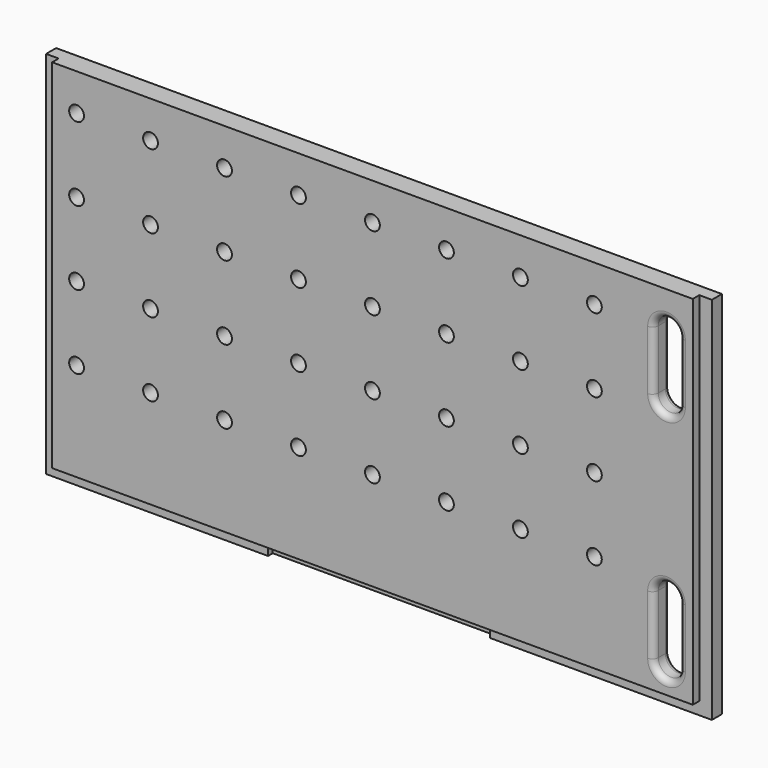
from build123d import *

# Parameters (mm, degrees)
F0_W          = 900
F0_H          = 500
F1_DEPTH      = 28
F2_R          = 10
F3_DEPTH      = 25
F3_DEPTH_BACK = 35
F4_DEPTH      = 25
F4_DEPTH_BACK = 35
F6_W          = 17
F6_H          = 500
F7_DEPTH      = 11
F9_DEPTH      = 25
F9_DEPTH_BACK = 35
F10_R         = 8
F11_W         = 866
F11_H         = 17
F12_DEPTH     = 11
F13_W         = 300
F13_H         = 27
F14_DEPTH     = 8


with BuildPart() as f1:
    # F0 (on Front) → F1 (new body)
    with BuildSketch(Plane.XZ):
        Rectangle(F0_W, F0_H)
    extrude(amount=F1_DEPTH)


with BuildPart() as f3:
    # F2 (on face) → F3 (new body, two sides)
    with BuildSketch(Plane.XZ.offset(28)) as f3_sk:
        with Locations((300, -100)):
            Circle(F2_R)
        with Locations((200, -100)):
            Circle(F2_R)
        with Locations((100, -100)):
            Circle(F2_R)
        with Locations((0, -100)):
            Circle(F2_R)
        with Locations((-100, -100)):
            Circle(F2_R)
        with Locations((-200, -100)):
            Circle(F2_R)
        with Locations((-300, -100)):
            Circle(F2_R)
        with Locations((-400, -100)):
            Circle(F2_R)
        with Locations((-400, 0)):
            Circle(F2_R)
        with Locations((-300, 0)):
            Circle(F2_R)
        with Locations((-200, 0)):
            Circle(F2_R)
        with Locations((-100, 0)):
            Circle(F2_R)
        Circle(F2_R)
        with Locations((100, 0)):
            Circle(F2_R)
        with Locations((200, 0)):
            Circle(F2_R)
        with Locations((300, 0)):
            Circle(F2_R)
        with Locations((-400, 100)):
            Circle(F2_R)
        with Locations((-300, 100)):
            Circle(F2_R)
        with Locations((-200, 100)):
            Circle(F2_R)
        with Locations((-100, 100)):
            Circle(F2_R)
        with Locations((0, 100)):
            Circle(F2_R)
        with Locations((100, 100)):
            Circle(F2_R)
        with Locations((200, 100)):
            Circle(F2_R)
        with Locations((300, 100)):
            Circle(F2_R)
        with Locations((-400, 200)):
            Circle(F2_R)
        with Locations((-300, 200)):
            Circle(F2_R)
        with Locations((-200, 200)):
            Circle(F2_R)
        with Locations((-100, 200)):
            Circle(F2_R)
        with Locations((0, 200)):
            Circle(F2_R)
        with Locations((100, 200)):
            Circle(F2_R)
        with Locations((200, 200)):
            Circle(F2_R)
        with Locations((300, 200)):
            Circle(F2_R)
    extrude(amount=F3_DEPTH)
    extrude(f3_sk.sketch, amount=-F3_DEPTH_BACK)


with BuildPart() as f4:
    # F2 (on face) → F4 (new body, two sides)
    with BuildSketch(Plane.XZ.offset(28)) as f4_sk:
        with Locations((300, -100)):
            Circle(F2_R)
        with Locations((200, -100)):
            Circle(F2_R)
        with Locations((100, -100)):
            Circle(F2_R)
        with Locations((0, -100)):
            Circle(F2_R)
        with Locations((-100, -100)):
            Circle(F2_R)
        with Locations((-200, -100)):
            Circle(F2_R)
        with Locations((-300, -100)):
            Circle(F2_R)
        with Locations((-400, -100)):
            Circle(F2_R)
        with Locations((-400, 0)):
            Circle(F2_R)
        with Locations((-300, 0)):
            Circle(F2_R)
        with Locations((-200, 0)):
            Circle(F2_R)
        with Locations((-100, 0)):
            Circle(F2_R)
        Circle(F2_R)
        with Locations((100, 0)):
            Circle(F2_R)
        with Locations((200, 0)):
            Circle(F2_R)
        with Locations((300, 0)):
            Circle(F2_R)
        with Locations((-400, 100)):
            Circle(F2_R)
        with Locations((-300, 100)):
            Circle(F2_R)
        with Locations((-200, 100)):
            Circle(F2_R)
        with Locations((-100, 100)):
            Circle(F2_R)
        with Locations((0, 100)):
            Circle(F2_R)
        with Locations((100, 100)):
            Circle(F2_R)
        with Locations((200, 100)):
            Circle(F2_R)
        with Locations((300, 100)):
            Circle(F2_R)
        with Locations((-400, 200)):
            Circle(F2_R)
        with Locations((-300, 200)):
            Circle(F2_R)
        with Locations((-200, 200)):
            Circle(F2_R)
        with Locations((-100, 200)):
            Circle(F2_R)
        with Locations((0, 200)):
            Circle(F2_R)
        with Locations((100, 200)):
            Circle(F2_R)
        with Locations((200, 200)):
            Circle(F2_R)
        with Locations((300, 200)):
            Circle(F2_R)
    extrude(amount=F4_DEPTH)
    extrude(f4_sk.sketch, amount=-F4_DEPTH_BACK)


with BuildPart() as f1_1:
    add(f1.part)

    # F5: cut F3, F4
    add(f3.part, mode=Mode.SUBTRACT)
    add(f4.part, mode=Mode.SUBTRACT)

    # F6 (on face) → F7 (cut)
    with BuildSketch(Plane.XZ.offset(28)):
        with Locations((441.5, 0)):
            Rectangle(F6_W, F6_H)
        with Locations((-441.5, 0)):
            Rectangle(F6_W, F6_H)
    extrude(amount=-F7_DEPTH, mode=Mode.SUBTRACT)

    # F8 (on face) → F9 (cut, two sides)
    with BuildSketch(Plane.XZ.offset(28)) as f9_sk:
        with BuildLine():
            Line((415, -197.5), (415, -117.5))
            ThreePointArc((415, -117.5), (397.5, -100), (380, -117.5))
            Line((380, -117.5), (380, -197.5))
            ThreePointArc((380, -197.5), (397.5, -215), (415, -197.5))
        make_face()
        with BuildLine():
            Line((414.999995, 117.5), (414.999995, 197.5))
            ThreePointArc((414.999995, 197.5), (397.499995, 215), (379.999995, 197.5))
            Line((379.999995, 197.5), (379.999995, 117.5))
            ThreePointArc((379.999995, 117.5), (397.499995, 100), (414.999995, 117.5))
        make_face()
    extrude(amount=F9_DEPTH, mode=Mode.SUBTRACT)
    extrude(f9_sk.sketch, amount=-F9_DEPTH_BACK, mode=Mode.SUBTRACT)

    # F10
    f10_edges = [f1_1.edges().sort_by_distance(p)[0] for p in [
        (397.499995, -28, 100),
        (397.499995, 0, 100),
        (397.5, -28, -215),
        (397.5, 0, -215),
    ]]
    fillet(f10_edges, radius=F10_R)

    # F11 (on face) → F12 (cut)
    with BuildSketch(Plane.XZ.offset(28)):
        with Locations((0, -241.5)):
            Rectangle(F11_W, F11_H)
    extrude(amount=-F12_DEPTH, mode=Mode.SUBTRACT)

    # F13 (on face) → F14 (cut)
    with BuildSketch(Plane.XZ.offset(17)):
        with Locations((0, -236.5)):
            Rectangle(F13_W, F13_H)
    extrude(amount=-F14_DEPTH, mode=Mode.SUBTRACT)


solid = f1_1.part
